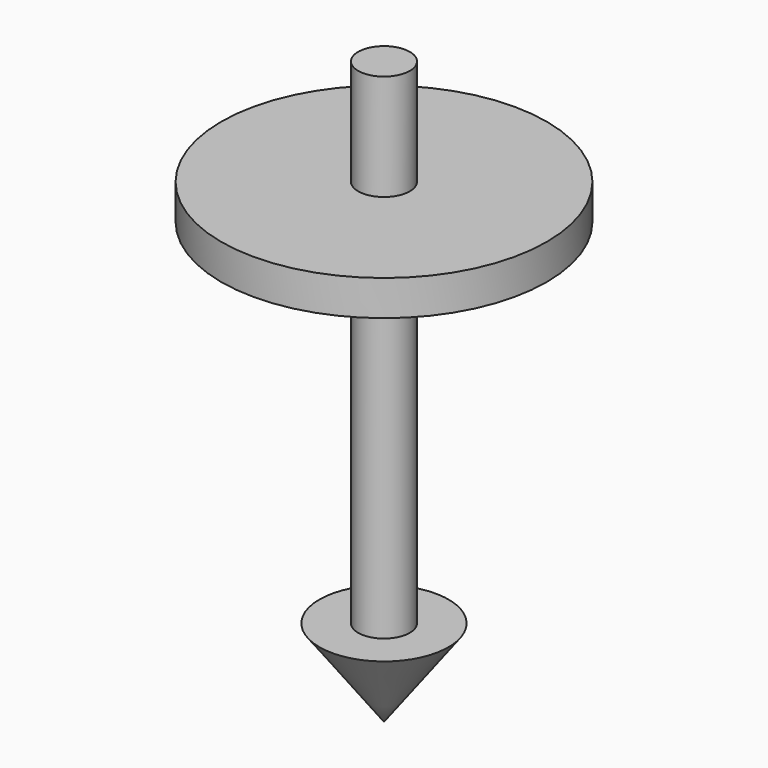
from build123d import *

# Parameters (mm, degrees)
F0_R     = 0.9278723563
F1_DEPTH = 12.7
F4_DEPTH = 7.62
F5_R     = 5.8500473035
F6_DEPTH = 1.27


with BuildPart() as f1:
    # F0 (on Top) → F1 (new body, symmetric)
    with BuildSketch(Plane.XY):
        Circle(F0_R)
    extrude(amount=F1_DEPTH, both=True)

    # F2 (on Front) → F3 (revolve)
    with BuildSketch(Plane.XZ):
        Polygon((0, -15.8198643476), (0, -12.7), (-2.3196195252, -12.7), align=None)
    revolve(axis=Axis((0, 0, -14.2599321738), (0, 0, 1)))

    # F4 (cut): a face of the model
    f4_faces = [f1.faces().sort_by_distance(p)[0] for p in [
        (0, 0, 12.7),
    ]]
    extrude(f4_faces, amount=-F4_DEPTH, mode=Mode.SUBTRACT)

    # F5 (on Top) → F6 (join)
    with BuildSketch(Plane.XY):
        Circle(F5_R)
    extrude(amount=F6_DEPTH)


solid = f1.part
